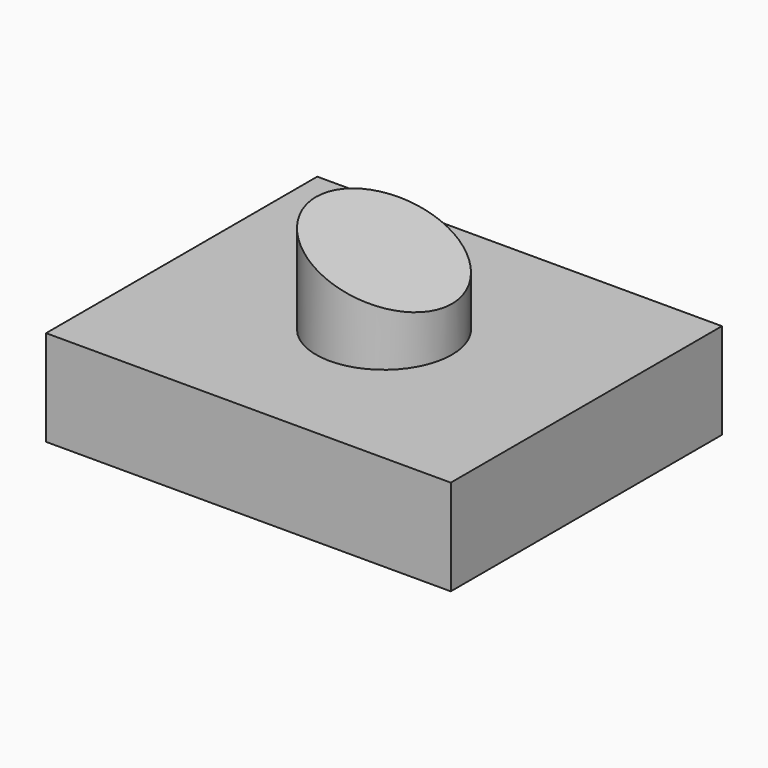
from build123d import *

# Parameters (mm, degrees)
F0_W          = 107.3818355799
F0_H          = 89.936055243
F1_DEPTH      = 25.4
F2_R          = 18.0288778137
F3_DEPTH      = 25.4
F5_DEPTH      = 44.9690276215
F5_DEPTH_BACK = 25.4


with BuildPart() as f1:
    # F0 (on Top) → F1 (new body)
    with BuildSketch(Plane.XY):
        Rectangle(F0_W, F0_H)
    extrude(amount=F1_DEPTH)

    # F2 (on face) → F3 (join)
    with BuildSketch(Plane.XY.offset(25.4)):
        Circle(F2_R)
    extrude(amount=F3_DEPTH)

    # F4 (on Front) → F5 (cut, two sides)
    with BuildSketch(Plane.XZ) as f5_sk:
        Polygon((18.27981323, 50.8), (-18.6916068196, 50.8), (18.27981323, 37.2017361224), align=None)
    extrude(amount=-F5_DEPTH, mode=Mode.SUBTRACT)
    extrude(f5_sk.sketch, amount=F5_DEPTH_BACK, mode=Mode.SUBTRACT)


solid = f1.part
